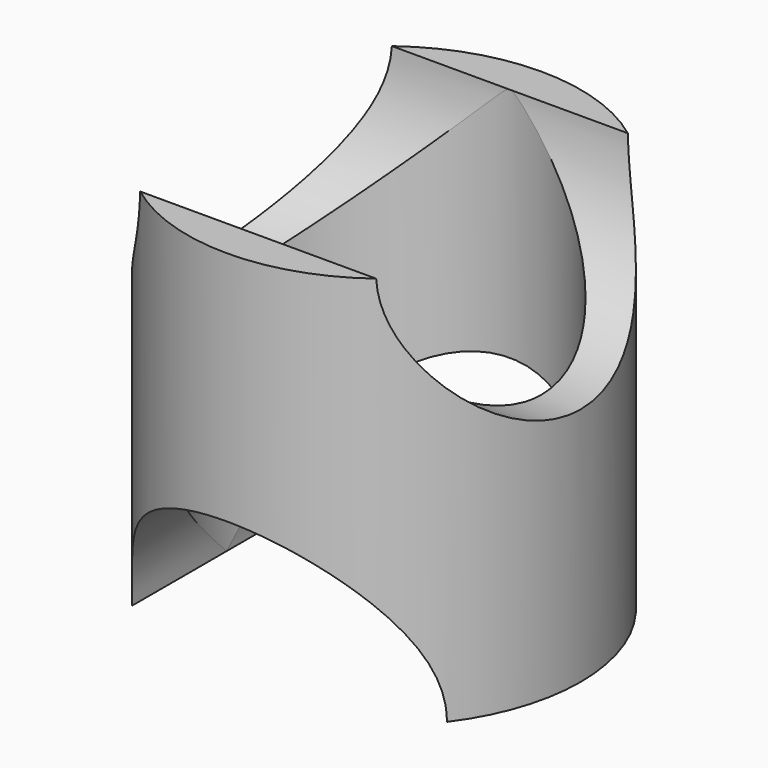
from build123d import *

# Parameters (mm, degrees)
F0_R          = 5
F1_DEPTH      = 10
F3_DEPTH      = 5.001
F3_DEPTH_BACK = 5.001
F5_DEPTH      = 5.0010001
F5_DEPTH_BACK = 5.0010001
F6_R          = 4
F7_DEPTH      = 10.0010001


with BuildPart() as f1:
    # F0 (on Top) → F1 (new body)
    with BuildSketch(Plane.XY):
        Circle(F0_R)
    extrude(amount=F1_DEPTH)

    # F2 (on Front) → F3 (cut, two sides)
    with BuildSketch(Plane.XZ) as f3_sk:
        with BuildLine():
            ThreePointArc((4, 0), (0, 4), (-4, 0))
            Line((-4, 0), (4, 0))
        make_face()
    extrude(amount=-F3_DEPTH, mode=Mode.SUBTRACT)
    extrude(f3_sk.sketch, amount=F3_DEPTH_BACK, mode=Mode.SUBTRACT)

    # F4 (on Right) → F5 (cut, two sides)
    with BuildSketch(Plane.YZ) as f5_sk:
        with BuildLine():
            ThreePointArc((-4, 10), (0, 6.0994715953), (4, 10))
            Line((4, 10), (-4, 10))
        make_face()
    extrude(amount=-F5_DEPTH, mode=Mode.SUBTRACT)
    extrude(f5_sk.sketch, amount=F5_DEPTH_BACK, mode=Mode.SUBTRACT)

    # F6 (on Top) → F7 (cut, through all)
    with BuildSketch(Plane.XY):
        Circle(F6_R)
    extrude(amount=F7_DEPTH, mode=Mode.SUBTRACT)


solid = f1.part
